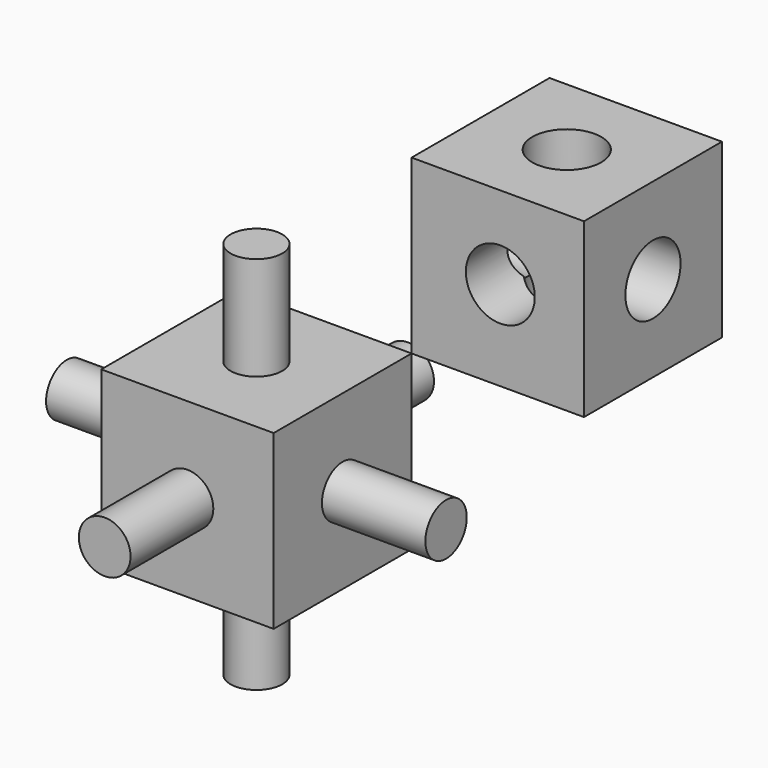
from build123d import *

# Parameters (mm, degrees)
F0_W      = 100
F0_H      = 100
F1_DEPTH  = 100
F2_R      = 20
F3_DEPTH  = 132.08
F4_R      = 20
F5_DEPTH  = 119.126
F7_R      = 20
F8_DEPTH  = 126.238
F9_W      = 100
F9_H      = 100
F10_DEPTH = 100
F11_R     = 15
F12_DEPTH = 60
F13_R     = 15
F14_DEPTH = 60
F15_R     = 15
F16_DEPTH = 60
F17_R     = 15
F18_DEPTH = 60
F19_R     = 15
F20_DEPTH = 60
F21_R     = 15
F22_DEPTH = 60


with BuildPart() as f1:
    # F0 (on Top) → F1 (new body)
    with BuildSketch(Plane.XY):
        with Locations((50, 50)):
            Rectangle(F0_W, F0_H)
    extrude(amount=F1_DEPTH)

    # F2 (on face) → F3 (cut)
    with BuildSketch(Plane(origin=(0, 100, 0), x_dir=(-1, 0, 0), z_dir=(0, 1, 0))):
        with Locations((-51.4743328094, 51.9690141082)):
            Circle(F2_R)
    extrude(amount=-F3_DEPTH, mode=Mode.SUBTRACT)

    # F4 (on face) → F5 (cut)
    with BuildSketch(Plane.YZ.offset(100)):
        with Locations((50, 50)):
            Circle(F4_R)
    extrude(amount=-F5_DEPTH, mode=Mode.SUBTRACT)

    # F7 (on face) → F8 (cut)
    with BuildSketch(Plane.XY.offset(100)):
        with Locations((50, 50)):
            Circle(F7_R)
    extrude(amount=-F8_DEPTH, mode=Mode.SUBTRACT)


with BuildPart() as f10:
    # F9 (on Front) → F10 (new body)
    with BuildSketch(Plane.XZ):
        with Locations((-50, -50)):
            Rectangle(F9_W, F9_H)
    extrude(amount=F10_DEPTH)

    # F11 (on face) → F12 (join)
    with BuildSketch(Plane.XZ.offset(100)):
        with Locations((-50, -50)):
            Circle(F11_R)
    extrude(amount=F12_DEPTH)

    # F13 (on face) → F14 (join)
    with BuildSketch(Plane(origin=(-100, 0, 0), x_dir=(0, -1, 0), z_dir=(-1, 0, 0))):
        with Locations((50, -50)):
            Circle(F13_R)
    extrude(amount=F14_DEPTH)

    # F15 (on face) → F16 (join)
    with BuildSketch(Plane.XY):
        with Locations((-50, -50)):
            Circle(F15_R)
    extrude(amount=F16_DEPTH)

    # F17 (on face) → F18 (join)
    with BuildSketch(Plane(origin=(0, 0, 0), x_dir=(-1, 0, 0), z_dir=(0, 1, 0))):
        with Locations((50, -50)):
            Circle(F17_R)
    extrude(amount=F18_DEPTH)

    # F19 (on face) → F20 (join)
    with BuildSketch(Plane.YZ):
        with Locations((-50, -50)):
            Circle(F19_R)
    extrude(amount=F20_DEPTH)

    # F21 (on face) → F22 (join)
    with BuildSketch(Plane(origin=(0, 0, -100), x_dir=(1, 0, 0), z_dir=(0, 0, -1))):
        with Locations((-50, 50)):
            Circle(F21_R)
    extrude(amount=F22_DEPTH)


solid = Compound([f1.part, f10.part])
